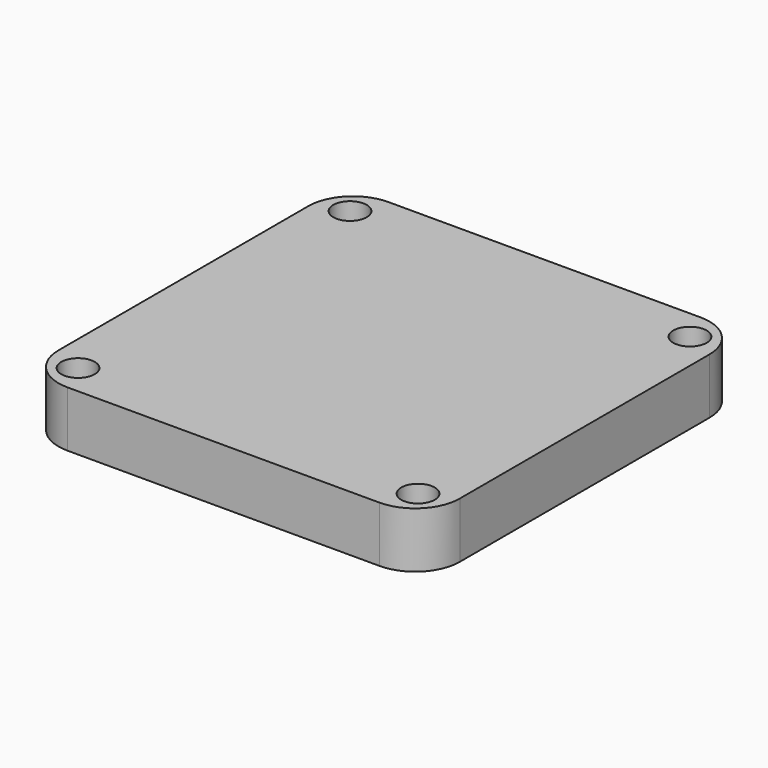
from build123d import *

# Parameters (mm, degrees)
F0_W     = 36
F0_H     = 36
F1_DEPTH = 5
F2_D     = 3
F3_R     = 4


with BuildPart() as f1:
    # F0 (on Top) → F1 (new body)
    with BuildSketch(Plane.XY):
        with Locations((-3.1273178756, -4.2013906179)):
            Rectangle(F0_W, F0_H)
    extrude(amount=F1_DEPTH)

    # F2 (through all)
    with Locations(Plane(origin=(0, 0, 0), x_dir=(1, 0, 0), z_dir=(0, 0, -1))):
        with Locations((12.1226821244, -11.0486093821), (-18.3773178756, -11.0486093821), (-18.3773178756, 19.4513906179), (12.1226821244, 19.4513906179)):
            Hole(F2_D / 2)

    # F3
    f3_edges = [f1.edges().sort_by_distance(p)[0] for p in [
        (14.872682, -22.201391, 2.5),
        (14.872682, 13.798609, 2.5),
        (-21.127318, -22.201391, 2.5),
        (-21.127318, 13.798609, 2.5),
    ]]
    fillet(f3_edges, radius=F3_R)


solid = f1.part
